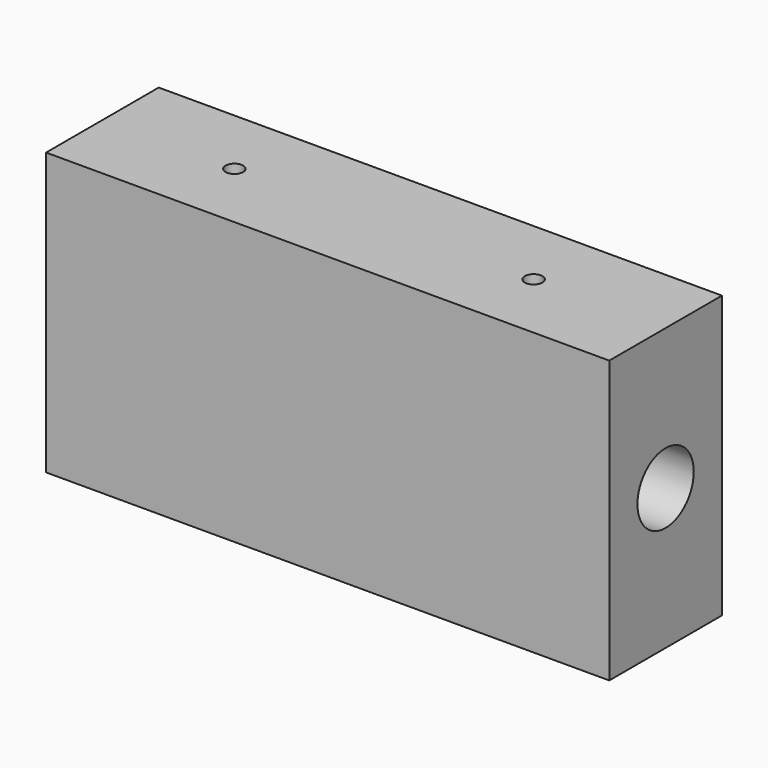
from build123d import *

# Parameters (mm, degrees)
F0_W     = 101.6
F0_H     = 25.4
F1_DEPTH = 50.8
F3_D     = 3.175
F3_DEPTH = 12.7
F3_TIP   = 0.9538662327
F5_D     = 12.7


with BuildPart() as f1:
    # F0 (on Top) → F1 (new body)
    with BuildSketch(Plane.XY):
        Rectangle(F0_W, F0_H)
    extrude(amount=F1_DEPTH)

    # F3
    with Locations(Plane.XY.offset(50.8)):
        with Locations((-26.9875, 0), (26.9875, 0)):
            Hole(F3_D / 2, depth=F3_DEPTH)
            with Locations((0, 0, -(F3_DEPTH + F3_TIP / 2))):  # 118° drill point
                Cone(0, F3_D / 2, F3_TIP, mode=Mode.SUBTRACT)

    # F5 (through all)
    with Locations(Plane(origin=(-50.8, 0, 0), x_dir=(0, -1, 0), z_dir=(-1, 0, 0))):
        with Locations((0, 25.4)):
            Hole(F5_D / 2)


solid = f1.part
